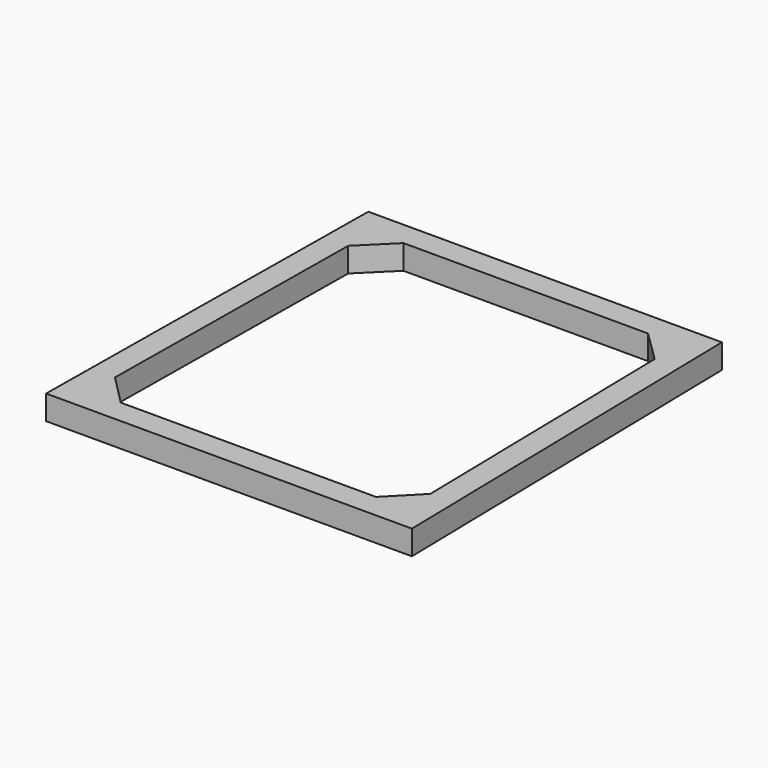
from build123d import *

# Parameters (mm, degrees)
F1_DEPTH = 40
F3_DEPTH = 40


with BuildPart() as f1:
    # F0 (on Top) → F1 (new body)
    with BuildSketch(Plane.XY):
        Polygon((332.0845210909, -347.7050300548), (319.3211823341, 303.9410197735), (-260.6788176659, 303.9410197735), (-267.9154789091, -347.7050300548), align=None)
        Polygon((-221.1205593255, 263.9410197735), (280.0969628313, 263.9410197735), (291.2933971301, -307.7050300548), (-227.4688043808, -307.7050300548), align=None, mode=Mode.SUBTRACT)
    extrude(amount=F1_DEPTH)

    # F2 (on face) → F3 (join)
    with BuildSketch(Plane.XY.offset(40)):
        Polygon((-171.1205593255, 263.9410197735), (-221.1205593255, 263.9410197735), (-221.6757852073, 213.9441026263), align=None)
        Polygon((281.0760903275, 213.9506075993), (280.0969628313, 263.9410197735), (230.0969628313, 263.9410197735), align=None)
        Polygon((-226.9135784991, -257.7081129076), (-227.4688043808, -307.7050300548), (-177.4688043808, -307.7050300548), align=None)
        Polygon((241.2933971301, -307.7050300548), (291.2933971301, -307.7050300548), (290.3142696339, -257.7146178806), align=None)
    extrude(amount=-F3_DEPTH)


solid = f1.part
